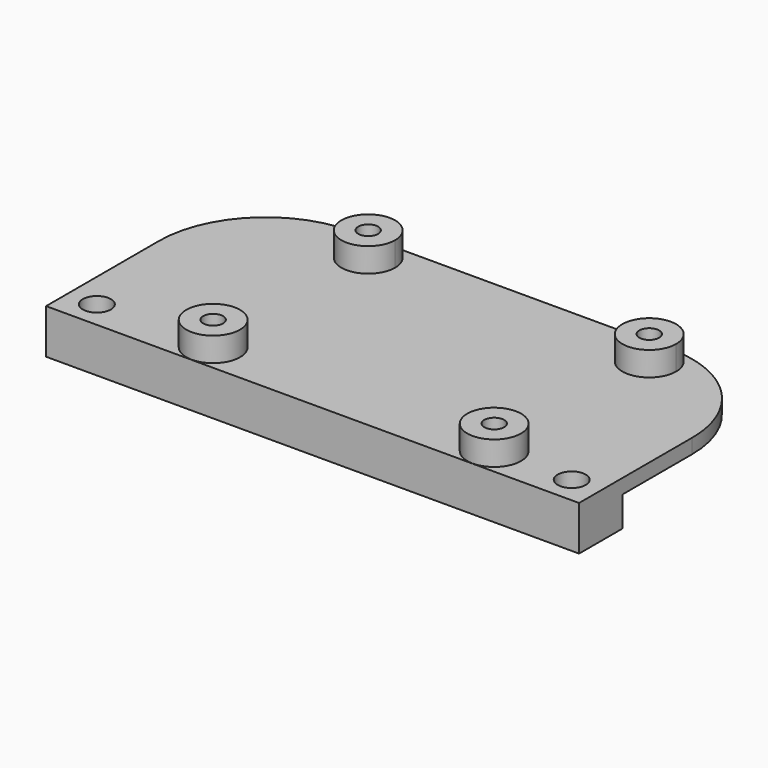
from build123d import *

# Parameters (mm, degrees)
F0_W     = 55
F0_H     = 5.6
F0_R     = 1.45
F0_R_2   = 2.775
F0_R_3   = 1.025
F1_DEPTH = 1.5
F2_DEPTH = 3.1
F3_DEPTH = 4


with BuildPart() as f1:
    # F0 (on Top) → F1 (new body)
    with BuildSketch(Plane.XY):
        Rectangle(F0_W, F0_H)
        with Locations((-24.5, 0)):
            Circle(F0_R, mode=Mode.SUBTRACT)
        with Locations((-12.5, 0)):
            Circle(F0_R_2, mode=Mode.SUBTRACT)
        with Locations((16.5, 0)):
            Circle(F0_R_2, mode=Mode.SUBTRACT)
        with Locations((24.5, 0)):
            Circle(F0_R, mode=Mode.SUBTRACT)
        with BuildLine():
            Line((-27.5, 11.775), (-27.5, 2.8))
            Line((-27.5, 2.8), (27.5, 2.8))
            Line((27.5, 2.8), (27.5, 11.775))
            ThreePointArc((27.5, 11.775), (24.278175, 19.553175), (16.5, 22.775))
            Line((16.5, 22.775), (-12.5, 22.775))
            Line((-12.5, 22.775), (-16.5, 22.775))
            ThreePointArc((-16.5, 22.775), (-24.278175, 19.553175), (-27.5, 11.775))
        make_face()
        with BuildLine():
            ThreePointArc((-9.725, 20), (-14.462221, 18.037779), (-12.5, 22.775))
            ThreePointArc((-12.5, 22.775), (-10.537779, 21.962221), (-9.725, 20))
        make_face(mode=Mode.SUBTRACT)
        with BuildLine():
            ThreePointArc((19.275, 20), (14.537779, 18.037779), (16.5, 22.775))
            ThreePointArc((16.5, 22.775), (18.462221, 21.962221), (19.275, 20))
        make_face(mode=Mode.SUBTRACT)
        with BuildLine():
            ThreePointArc((19.275, 20), (18.462221, 21.962221), (16.5, 22.775))
            ThreePointArc((16.5, 22.775), (14.537779, 18.037779), (19.275, 20))
        make_face()
        with Locations((16.5, 20)):
            Circle(F0_R_3, mode=Mode.SUBTRACT)
        with BuildLine():
            ThreePointArc((-9.725, 20), (-10.537779, 21.962221), (-12.5, 22.775))
            ThreePointArc((-12.5, 22.775), (-14.462221, 18.037779), (-9.725, 20))
        make_face()
        with Locations((-12.5, 20)):
            Circle(F0_R_3, mode=Mode.SUBTRACT)
        with Locations((16.5, 0)):
            Circle(F0_R_2)
        with Locations((16.5, 0)):
            Circle(F0_R_3, mode=Mode.SUBTRACT)
        with Locations((-12.5, 0)):
            Circle(F0_R_2)
        with Locations((-12.5, 0)):
            Circle(F0_R_3, mode=Mode.SUBTRACT)
    extrude(amount=F1_DEPTH)

    # F0 (on Top) → F2 (join)
    with BuildSketch(Plane.XY):
        Rectangle(F0_W, F0_H)
        with Locations((-24.5, 0)):
            Circle(F0_R, mode=Mode.SUBTRACT)
        with Locations((-12.5, 0)):
            Circle(F0_R_2, mode=Mode.SUBTRACT)
        with Locations((16.5, 0)):
            Circle(F0_R_2, mode=Mode.SUBTRACT)
        with Locations((24.5, 0)):
            Circle(F0_R, mode=Mode.SUBTRACT)
        with Locations((-12.5, 0)):
            Circle(F0_R_2)
        with Locations((-12.5, 0)):
            Circle(F0_R_3, mode=Mode.SUBTRACT)
        with Locations((16.5, 0)):
            Circle(F0_R_2)
        with Locations((16.5, 0)):
            Circle(F0_R_3, mode=Mode.SUBTRACT)
    extrude(amount=-F2_DEPTH)

    # F0 (on Top) → F3 (join)
    with BuildSketch(Plane.XY):
        with BuildLine():
            ThreePointArc((19.275, 20), (18.462221, 21.962221), (16.5, 22.775))
            ThreePointArc((16.5, 22.775), (14.537779, 18.037779), (19.275, 20))
        make_face()
        with Locations((16.5, 20)):
            Circle(F0_R_3, mode=Mode.SUBTRACT)
        with BuildLine():
            ThreePointArc((-9.725, 20), (-10.537779, 21.962221), (-12.5, 22.775))
            ThreePointArc((-12.5, 22.775), (-14.462221, 18.037779), (-9.725, 20))
        make_face()
        with Locations((-12.5, 20)):
            Circle(F0_R_3, mode=Mode.SUBTRACT)
        with Locations((16.5, 0)):
            Circle(F0_R_2)
        with Locations((16.5, 0)):
            Circle(F0_R_3, mode=Mode.SUBTRACT)
        with Locations((-12.5, 0)):
            Circle(F0_R_2)
        with Locations((-12.5, 0)):
            Circle(F0_R_3, mode=Mode.SUBTRACT)
    extrude(amount=F3_DEPTH)


solid = f1.part
